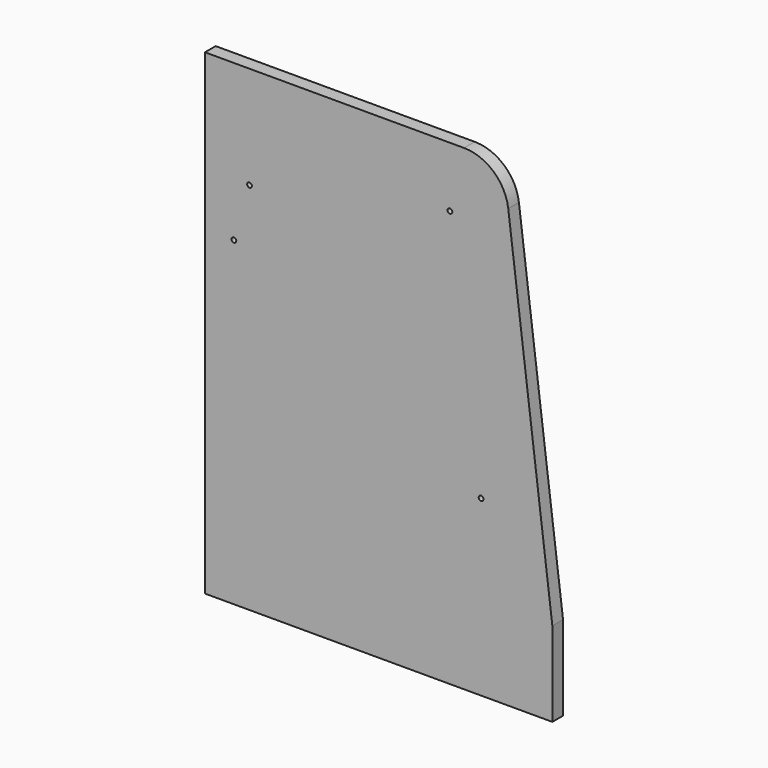
from build123d import *

# Parameters (mm, degrees)
F1_DEPTH    = 38.1
F3_D        = 13.49248
F5_DEPTH    = 38.1
F7_DEPTH    = 38.1
F10_D       = 10.0838
F10_ON_F9_D = 10.0838


with BuildPart() as f1:
    # F0 (on Front) → F1 (new body)
    with BuildSketch(Plane.XZ):
        with BuildLine():
            Line((0, 1358.9), (0, 0))
            Line((0, 0), (990.6, 0))
            Line((990.6, 0), (990.6, 241.3))
            Line((990.6, 241.3), (864.8059485884, 1247.6524112928))
            ThreePointArc((864.8059485884, 1247.6524112928), (822.8355837767, 1327.1091283286), (738.7866582458, 1358.9))
            Line((738.7866582458, 1358.9), (0, 1358.9))
        make_face()
    extrude(amount=F1_DEPTH)

    # F3 (through all)
    with Locations(Plane.XZ.offset(38.1)):
        with Locations((698.5, 1187.45), (82.55, 914.4), (127, 1066.8), (787.4, 495.3)):
            Hole(F3_D / 2)

    # F4 (on face) → F5 (join)
    with BuildSketch(Plane(origin=(0, 0, 0), x_dir=(-1, 0, 0), z_dir=(0, 1, 0))):
        with BuildLine():
            ThreePointArc((-666.75, 1187.45), (-698.5, 1155.7), (-730.25, 1187.45))
            Line((-730.25, 1187.45), (-730.25, 1231.9))
            Line((-730.25, 1231.9), (-755.65, 1231.9))
            Line((-755.65, 1231.9), (-755.65, 1130.3))
            Line((-755.65, 1130.3), (-698.5, 1130.3))
            Line((-698.5, 1130.3), (-641.35, 1130.3))
            Line((-641.35, 1130.3), (-641.35, 1231.9))
            Line((-641.35, 1231.9), (-666.75, 1231.9))
            Line((-666.75, 1231.9), (-666.75, 1187.45))
        make_face()
    extrude(amount=F5_DEPTH)

    # F6 (on face) → F7 (join)
    with BuildSketch(Plane(origin=(0, 0, 0), x_dir=(-1, 0, 0), z_dir=(0, 1, 0))):
        with BuildLine():
            ThreePointArc((-755.65, 495.3), (-787.4, 463.55), (-819.15, 495.3))
            Line((-819.15, 495.3), (-819.15, 539.75))
            Line((-819.15, 539.75), (-844.55, 539.75))
            Line((-844.55, 539.75), (-844.55, 438.15))
            Line((-844.55, 438.15), (-787.4, 438.15))
            Line((-787.4, 438.15), (-730.25, 438.15))
            Line((-730.25, 438.15), (-730.25, 539.75))
            Line((-730.25, 539.75), (-755.65, 539.75))
            Line((-755.65, 539.75), (-755.65, 495.3))
        make_face()
    extrude(amount=F7_DEPTH)

    # F10 (through all)
    with Locations(Plane.YZ.offset(755.65)):
        with Locations((19.05, 1219.2)):
            Hole(F10_D / 2)

    # F10 on F9 (through all)
    with Locations(Plane.YZ.offset(844.55)):
        with Locations((19.05, 527.05)):
            Hole(F10_ON_F9_D / 2)


solid = f1.part
